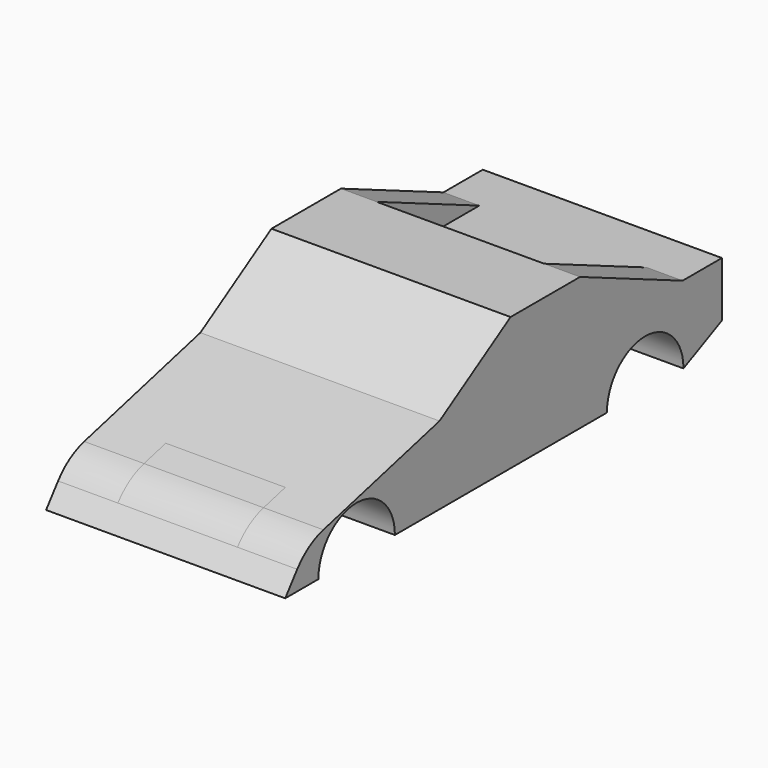
from build123d import *

# Parameters (mm, degrees)
F1_DEPTH  = 25.4
F2_W      = 35.56
F2_H      = 27.2373445332
F3_DEPTH  = 11.7755213211
F5_DEPTH  = 10.16
F6_W      = 50.8
F6_H      = 36.2164959553
F7_DEPTH  = 21.4742356462
F8_R      = 12.7
F9_W      = 10.16
F9_H      = 3.048
F10_DEPTH = 0.508
F11_R     = 0.9525
F12_DEPTH = 38.101
F13_R     = 0.9525
F14_DEPTH = 38.101


with BuildPart() as f1:
    # F0 (on Right) → F1 (new body, symmetric)
    with BuildSketch(Plane.YZ):
        with BuildLine():
            Line((18.8676062971, 11.7745213211), (0, 0))
            Line((0, 0), (-35.1084388614, -8.89))
            Line((-35.1084388614, -8.89), (-40.9786602931, -16.51))
            Line((-40.9786602931, -16.51), (-32.1733296278, -16.51))
            ThreePointArc((-32.1733296278, -16.51), (-22.0133296278, -6.35), (-11.8533296278, -16.51))
            Line((-11.8533296278, -16.51), (44.4567567372, -16.51))
            ThreePointArc((44.4567567372, -16.51), (54.6167567372, -6.35), (64.7767567372, -16.51))
            Line((64.7767567372, -16.51), (74.9908098316, -11.6867008752))
            Line((74.9908098316, -11.6867008752), (74.9908098316, 0))
            Line((74.9908098316, 0), (64.5470768213, 0))
            Line((64.5470768213, 0), (37.3096317053, 11.7745213211))
            Line((37.3096317053, 11.7745213211), (18.8676062971, 11.7745213211))
        make_face()
    extrude(amount=F1_DEPTH, both=True)

    # F2 (on face) → F3 (cut, through all)
    with BuildSketch(Plane.XY):
        with Locations((0, 50.9284045547)):
            Rectangle(F2_W, F2_H)
    extrude(amount=F3_DEPTH, mode=Mode.SUBTRACT)

    # F4 (on face) → F5 (join)
    with BuildSketch(Plane(origin=(0, 0, -16.51), x_dir=(1, 0, 0), z_dir=(0, 0, -1))):
        Polygon((-12.7, -72.8133333333), (0, -72.8133333333), (12.7, -72.8133333333), (12.7, 32.1743115783), (-12.7, 32.1743115783), align=None)
    extrude(amount=-F5_DEPTH)

    # F6 (on face) → F7 (cut, through all)
    with BuildSketch(Plane(origin=(0, 0, 0), x_dir=(1, 0, 0), z_dir=(0, -0.2454682532, 0.96940463))):
        with Locations((0, -18.1082479777)):
            Rectangle(F6_W, F6_H)
    extrude(amount=F7_DEPTH, mode=Mode.SUBTRACT)

    # F8
    f8_edges = [f1.edges().sort_by_distance(p)[0] for p in [
        (0, -35.108439, -8.89),
    ]]
    fillet(f8_edges, radius=F8_R)

    # F9 (on face) → F10 (cut)
    with BuildSketch(Plane(origin=(0, 74.9908098316, 0), x_dir=(-1, 0, 0), z_dir=(0, 1, 0))):
        with Locations((0, -4.6856853668)):
            Rectangle(F9_W, F9_H)
    extrude(amount=-F10_DEPTH, mode=Mode.SUBTRACT)

    # F11 (on face) → F12 (cut, through all)
    with BuildSketch(Plane.YZ.offset(12.7)):
        with Locations((-22.0133296278, -15.24)):
            Circle(F11_R)
    extrude(amount=-F12_DEPTH, mode=Mode.SUBTRACT)

    # F13 (on face) → F14 (cut, through all)
    with BuildSketch(Plane.YZ.offset(12.7)):
        with Locations((54.6167567372, -15.24)):
            Circle(F13_R)
    extrude(amount=-F14_DEPTH, mode=Mode.SUBTRACT)


solid = f1.part
